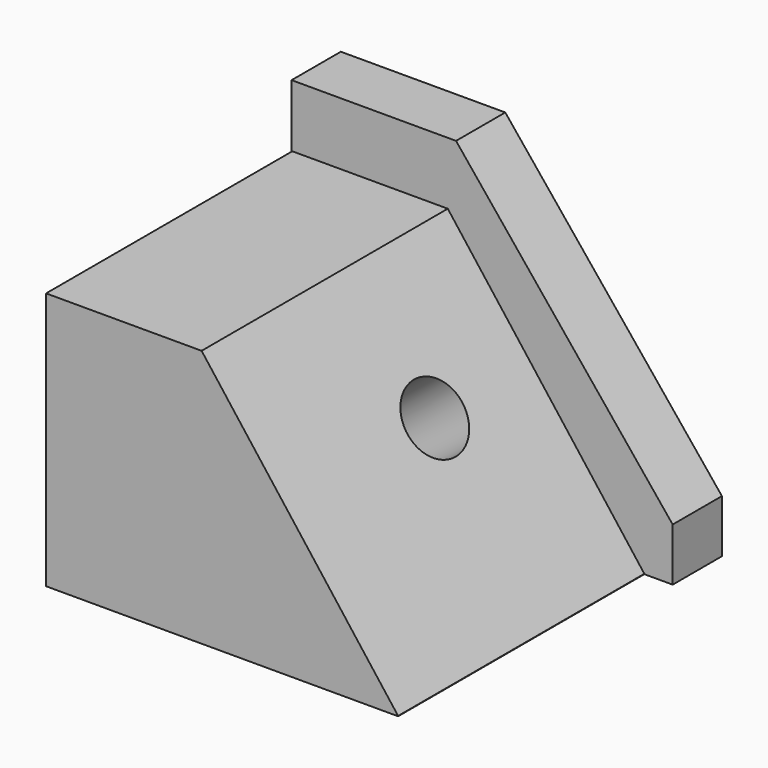
from build123d import *

# Parameters (mm, degrees)
F0_W          = 145.2813223004
F0_H          = 106.4100638032
F1_DEPTH      = 152.4
F3_DEPTH      = 25.4
F3_DEPTH_BACK = 193.04
F4_R          = 14.1433096913
F5_DEPTH      = 41.402
F7_DEPTH      = 25.4


with BuildPart() as f1:
    # F0 (on Front) → F1 (new body)
    with BuildSketch(Plane.XZ):
        with Locations((14.9816311896, -2.8343647718)):
            Rectangle(F0_W, F0_H)
    extrude(amount=F1_DEPTH)

    # F2 (on Front) → F3 (cut, two sides)
    with BuildSketch(Plane.XZ) as f3_sk:
        Polygon((91.3226157427, 59.4377643871), (0, 58.912049979), (91.3226157427, -60.7426390052), align=None)
    extrude(amount=-F3_DEPTH, mode=Mode.SUBTRACT)
    extrude(f3_sk.sketch, amount=F3_DEPTH_BACK, mode=Mode.SUBTRACT)

    # F4 (on face) → F5 (cut)
    with BuildSketch(Plane(origin=(28.4124414854, 0, 21.6848875552), x_dir=(0, 1, 0), z_dir=(0.794928192, 0, 0.6067035269))):
        with Locations((-74.8865753412, -20.3293599188)):
            Circle(F4_R)
    extrude(amount=-F5_DEPTH, mode=Mode.SUBTRACT)

    # F6 (on Front) → F7 (join)
    with BuildSketch(Plane.XZ):
        Polygon((9.9221970886, 76.122879982), (-57.940531522, 76.122879982), (-57.940531522, -56.0393966734), (99.3260890245, -56.0393966734), (99.3260890245, -34.1743119061), align=None)
    extrude(amount=F7_DEPTH)


solid = f1.part
